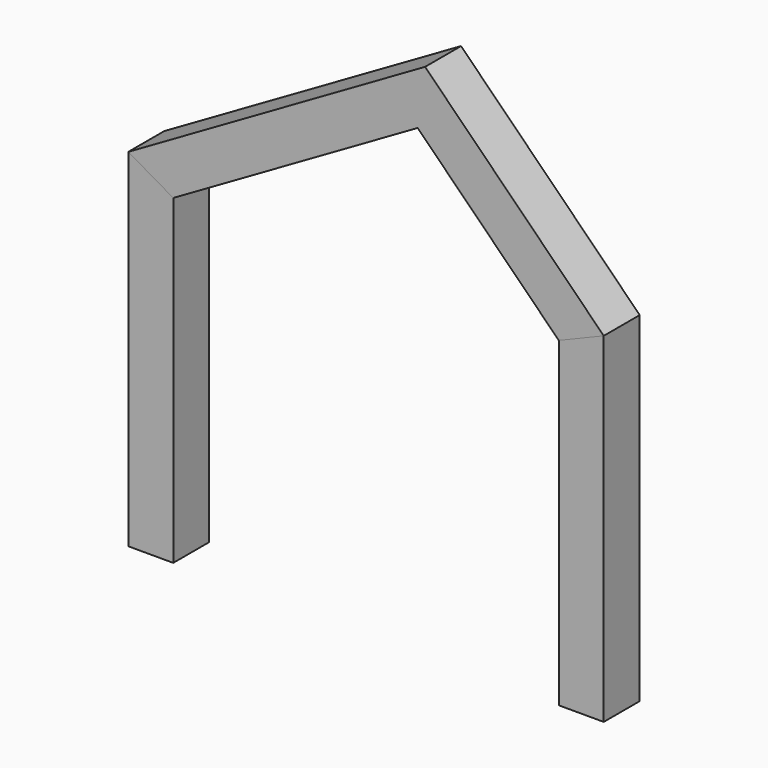
from build123d import *

# Parameters (mm, degrees)
F1_DEPTH = 88.9
F2_DEPTH = 88.9
F3_DEPTH = 88.9
F4_T     = -19.05
F5_T     = -2.54
F6_T     = -2.54


with BuildPart() as f1:
    # F0 (on Front) → F1 (new body, symmetric)
    with BuildSketch(Plane.XZ):
        Polygon((-1143.9772846325, 1372.6528778619), (-966.1772846325, 1270), (0, 1827.8227153675), (557.8227153675, 1270), (735.6227153675, 1343.6471713899), (29.2524853657, 2050.0174013917), align=None)
    extrude(amount=F1_DEPTH, both=True)

    # F6
    f6_openings = [f1.faces().sort_by_distance(p)[0] for p in [
        (-1055.077285, 0, 1321.326439),
        (646.722715, 0, 1306.823586),
    ]]
    offset(amount=F6_T, openings=f6_openings, kind=Kind.INTERSECTION)


with BuildPart() as f2:
    # F0 (on Front) → F2 (new body, symmetric)
    with BuildSketch(Plane.XZ):
        Polygon((-1143.9772846325, 0), (-966.1772846325, 0), (-966.1772846325, 1270), (-1143.9772846325, 1372.6528778619), align=None)
    extrude(amount=F2_DEPTH, both=True)

    # F4
    f4_openings = [f2.faces().sort_by_distance(p)[0] for p in [
        (-1055.077285, 0, 1321.326439),
        (-1055.077285, 0, 0),
    ]]
    offset(amount=F4_T, openings=f4_openings)


with BuildPart() as f3:
    # F0 (on Front) → F3 (new body, symmetric)
    with BuildSketch(Plane.XZ):
        Polygon((735.6227153675, 1343.6471713899), (557.8227153675, 1270), (557.8227153675, 0), (735.6227153675, 0), align=None)
    extrude(amount=F3_DEPTH, both=True)

    # F5
    f5_openings = [f3.faces().sort_by_distance(p)[0] for p in [
        (646.722715, 0, 1306.823586),
        (646.722715, 0, 0),
    ]]
    offset(amount=F5_T, openings=f5_openings)


solid = Compound([f1.part, f2.part, f3.part])
